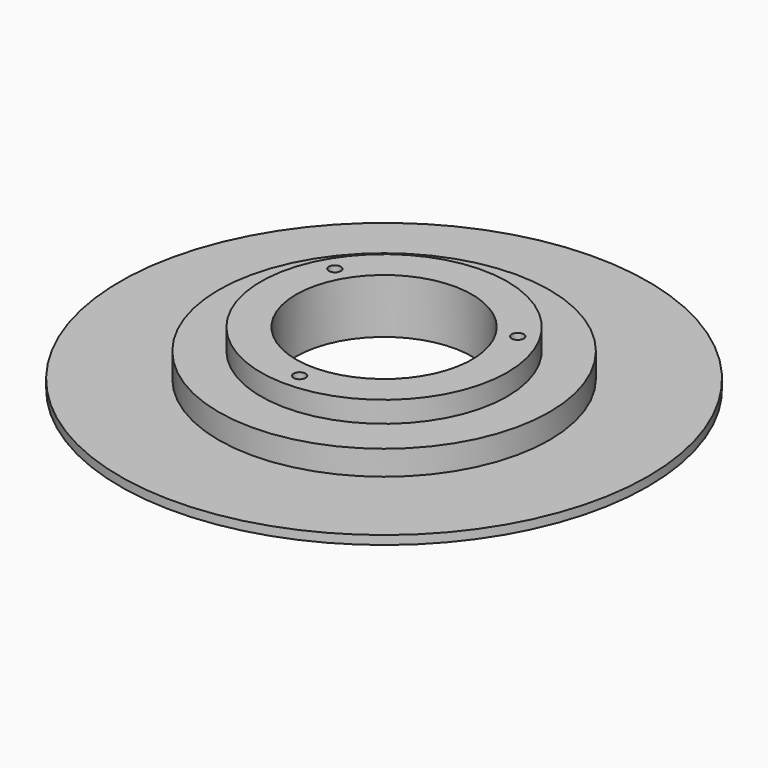
from build123d import *

# Parameters (mm, degrees)
SKETCH001_R   = 25
SKETCH001_R_2 = 1.7
POCKET_DEPTH  = 15.501


with BuildPart() as part:
    # Sketch → Revolution (revolve)
    with BuildSketch(Plane.XZ):
        Polygon((0, 15.5), (35, 15.5), (35, 9.5), (47, 9.5), (47, 2.5), (75, 2.5), (75, 0), (0, 0), align=None)
    revolve(axis=Axis((0, 0, 0), (0, 0, 1)))

    # Sketch001 → Pocket (cut, through all)
    with BuildSketch(Plane(origin=(0, 0, 15.5), x_dir=(-1, 0, 0), z_dir=(0, 0, 1))):
        Circle(SKETCH001_R)
        with Locations((0, 30)):
            Circle(SKETCH001_R_2)
        with Locations((25.980762, -15)):
            Circle(SKETCH001_R_2)
        with Locations((-25.980762, -15)):
            Circle(SKETCH001_R_2)
    extrude(amount=-POCKET_DEPTH, mode=Mode.SUBTRACT)


solid = part.part
